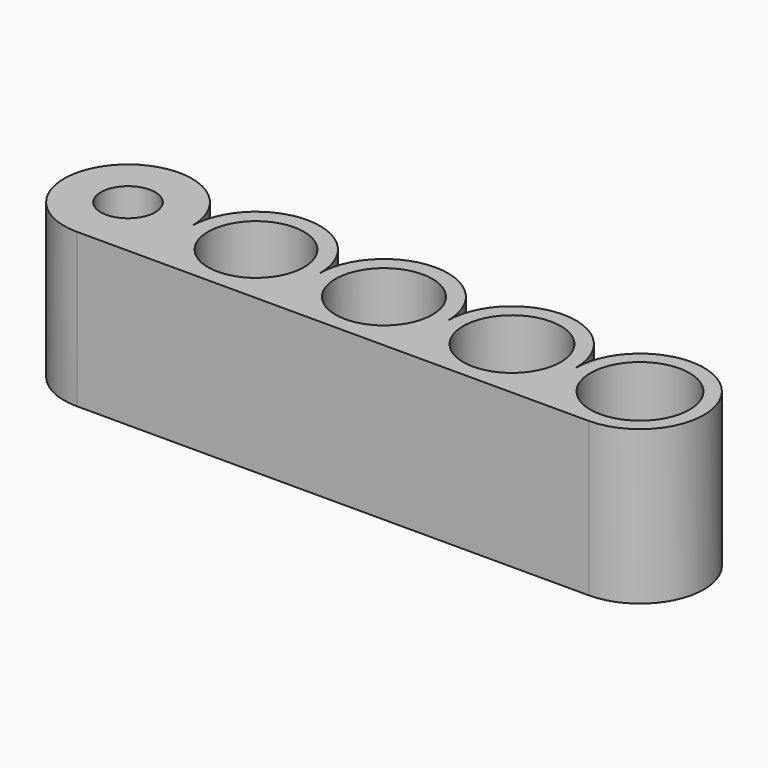
from build123d import *

# Parameters (mm, degrees)
SKETCH_R   = 4.25
SKETCH_R_2 = 7.5
SKETCH_R_3 = 7.575
SKETCH_R_4 = 7.625
SKETCH_R_5 = 7.75
PAD_DEPTH  = 24


with BuildPart() as part:
    # Sketch → Pad (new body)
    with BuildSketch(Plane.XY):
        with BuildLine():
            ThreePointArc((10, 0), (-7.071068, 7.071068), (0, -10))
            Line((80, -10), (0, -10))
            ThreePointArc((80, -10), (87.071068, 7.071068), (70, 0))
            ThreePointArc((70, 0), (60, 10), (50, 0))
            ThreePointArc((50, 0), (40, 10), (30, 0))
            ThreePointArc((30, 0), (20, 10), (10, 0))
        make_face()
        Circle(SKETCH_R, mode=Mode.SUBTRACT)
        with Locations((20, 0)):
            Circle(SKETCH_R_2, mode=Mode.SUBTRACT)
        with Locations((40, 0)):
            Circle(SKETCH_R_3, mode=Mode.SUBTRACT)
        with Locations((60, 0)):
            Circle(SKETCH_R_4, mode=Mode.SUBTRACT)
        with Locations((80, 0)):
            Circle(SKETCH_R_5, mode=Mode.SUBTRACT)
    extrude(amount=PAD_DEPTH)


solid = part.part
